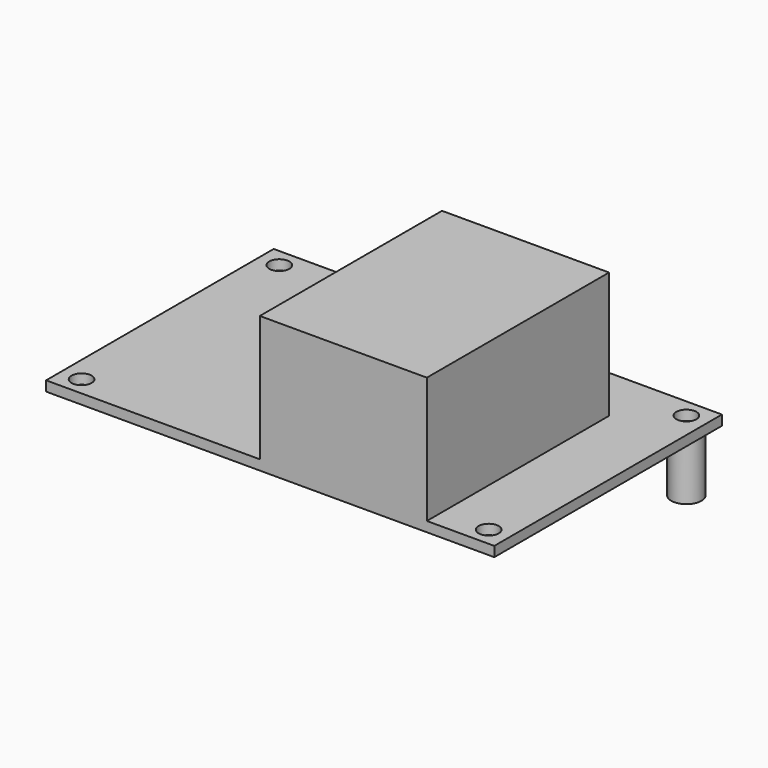
from build123d import *

# Parameters (mm, degrees)
F0_W     = 70.89
F0_H     = 45
F0_R     = 1.5875
F1_DEPTH = 1.5748
F2_W     = 26.416
F2_H     = 36.0172
F3_DEPTH = 21.53
F4_R     = 2.3876
F4_R_2   = 1.4605
F5_DEPTH = 9.525


with BuildPart() as f1:
    # F0 (on Top) → F1 (new body)
    with BuildSketch(Plane.XY):
        Rectangle(F0_W, F0_H)
        with Locations((-32.1938, -19.5453)):
            Circle(F0_R, mode=Mode.SUBTRACT)
        with Locations((32.1938, -19.5453)):
            Circle(F0_R, mode=Mode.SUBTRACT)
        with Locations((-32.1938, 19.5453)):
            Circle(F0_R, mode=Mode.SUBTRACT)
        with Locations((32.1938, 19.5453)):
            Circle(F0_R, mode=Mode.SUBTRACT)
    extrude(amount=F1_DEPTH)

    # F2 (on Top) → F3 (join)
    with BuildSketch(Plane.XY):
        with Locations((11.569, -4.4914)):
            Rectangle(F2_W, F2_H)
    extrude(amount=F3_DEPTH)


with BuildPart() as f5:
    # F4 (on Top) → F5 (new body)
    with BuildSketch(Plane.XY):
        with Locations((32.1938, 19.5453)):
            Circle(F4_R)
        with Locations((32.1938, 19.5453)):
            Circle(F4_R_2, mode=Mode.SUBTRACT)
    extrude(amount=-F5_DEPTH)


solid = Compound([f1.part, f5.part])
